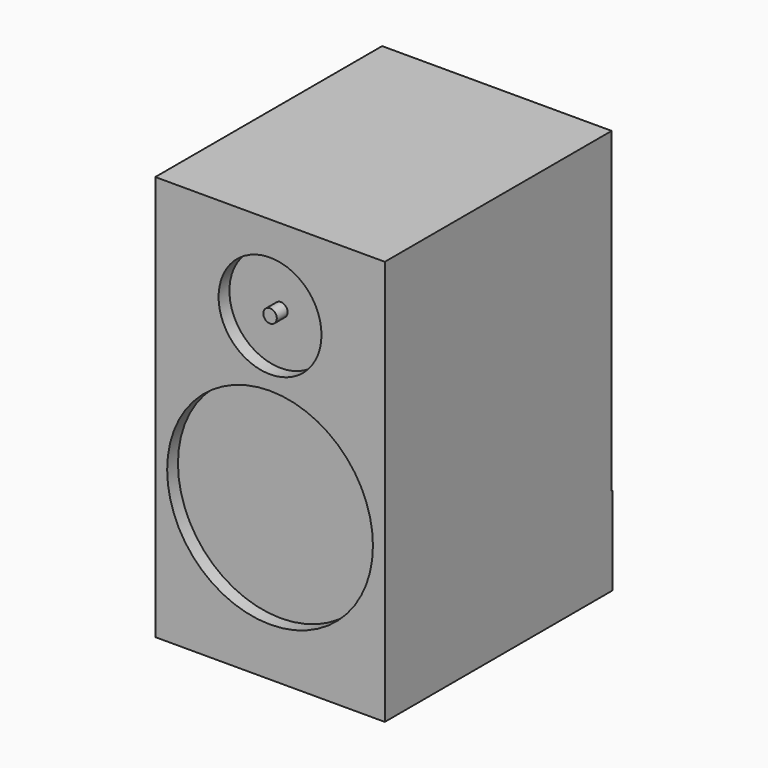
from build123d import *

# Parameters (mm, degrees)
F0_W     = 170
F0_H     = 210
F1_DEPTH = 300
F2_W     = 170
F2_H     = 65
F3_DEPTH = 1
F4_R     = 38.1
F4_R_2   = 5
F4_R_3   = 76.2
F5_DEPTH = 10


with BuildPart() as f1:
    # F0 (on Top) → F1 (new body)
    with BuildSketch(Plane.XY):
        Rectangle(F0_W, F0_H)
        Rectangle(F0_W, F0_H)
    extrude(amount=F1_DEPTH)

    # F2 (on face) → F3 (join)
    with BuildSketch(Plane(origin=(0, 105, 0), x_dir=(-1, 0, 0), z_dir=(0, 1, 0))):
        with Locations((0, 32.5)):
            Rectangle(F2_W, F2_H)
    extrude(amount=F3_DEPTH)

    # F4 (on face) → F5 (cut)
    with BuildSketch(Plane.XZ.offset(105)):
        with Locations((0, 237.059057)):
            Circle(F4_R)
        with Locations((0, 237.059057)):
            Circle(F4_R_2, mode=Mode.SUBTRACT)
        with Locations((0, 112.059531)):
            Circle(F4_R_3)
    extrude(amount=-F5_DEPTH, mode=Mode.SUBTRACT)


solid = f1.part
